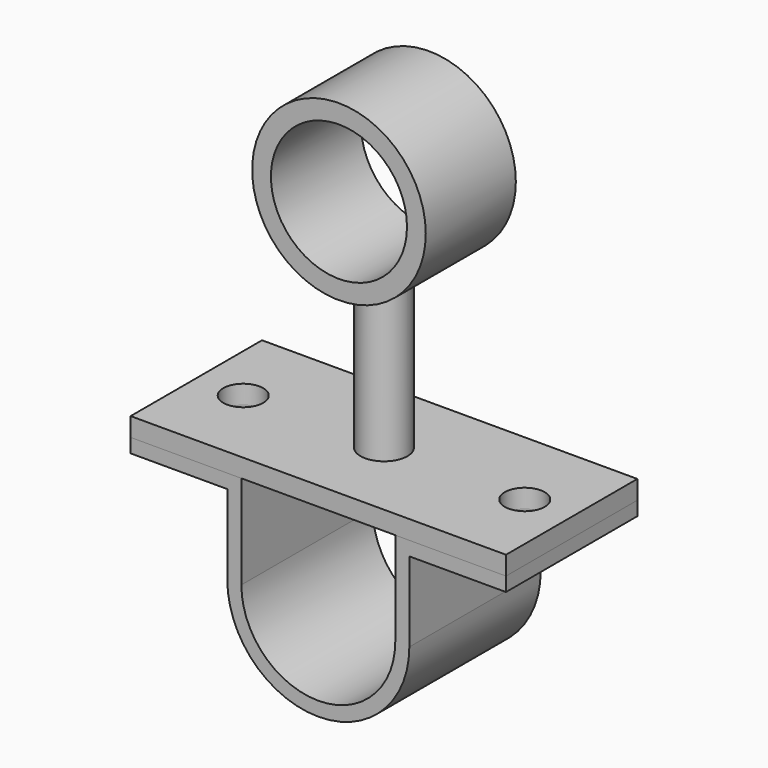
from build123d import *

# Parameters (mm, degrees)
F0_R      = 18.5
F0_R_2    = 14.5
F1_DEPTH  = 12
F3_R      = 5
F5_W      = 80
F5_H      = 35
F6_DEPTH  = 4
F8_DEPTH  = 17.5
F9_R      = 4.25
F10_DEPTH = 25


with BuildPart() as f1:
    # F0 (on Front) → F1 (new body, symmetric)
    with BuildSketch(Plane.XZ):
        Circle(F0_R)
        Circle(F0_R_2, mode=Mode.SUBTRACT)
    extrude(amount=F1_DEPTH, both=True)

    # F3 (on offset) → F4 (join, up to the next surface of F1)
    with BuildSketch(Plane.XY.offset(-55)):
        Circle(F3_R)
    extrude(until=Until.NEXT)

    # F5 (on offset) → F6 (join)
    with BuildSketch(Plane.XY.offset(-55)):
        Rectangle(F5_W, F5_H)
    extrude(amount=F6_DEPTH)


with BuildPart() as f8:
    # F7 (on Front) → F8 (new body, symmetric)
    with BuildSketch(Plane.XZ):
        with BuildLine():
            ThreePointArc((16.4, -75), (0, -91.4), (-16.4, -75))
            Line((-16.4, -75), (-16.4, -55))
            Line((-16.4, -55), (-40, -55))
            Line((-40, -55), (-40, -58))
            Line((-40, -58), (-19.4, -58))
            Line((-19.4, -58), (-19.4, -75))
            ThreePointArc((-19.4, -75), (0, -94.4), (19.4, -75))
            Line((19.4, -75), (19.4, -58))
            Line((19.4, -58), (40, -58))
            Line((40, -58), (40, -55))
            Line((40, -55), (16.4, -55))
            Line((16.4, -55), (16.4, -75))
        make_face()
    extrude(amount=F8_DEPTH, both=True)


with BuildPart() as f10_tool:
    # F9 (on face) → F10 (new body)
    with BuildSketch(Plane.XY.offset(-51)):
        with Locations((-30, 0)):
            Circle(F9_R)
        with Locations((30, 0)):
            Circle(F9_R)
    extrude(amount=-F10_DEPTH)


with BuildPart() as f1_1:
    add(f1.part)

    # F10: cut by f10_tool
    add(f10_tool.part, mode=Mode.SUBTRACT)


with BuildPart() as f8_1:
    add(f8.part)

    # F10: cut by f10_tool
    add(f10_tool.part, mode=Mode.SUBTRACT)


solid = Compound([f1_1.part, f8_1.part])
